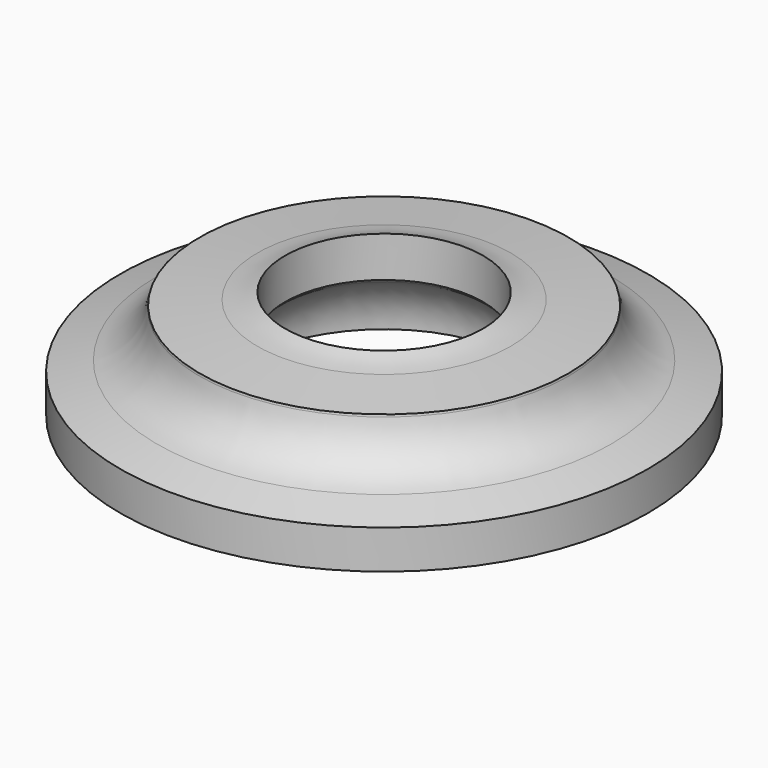
from build123d import *


with BuildPart() as part:
    # Sketch → Revolve (revolve)
    with BuildSketch(Plane.XZ):
        with BuildLine():
            Line((5.1, 5.6), (5.1, 3.5))
            Line((5.271141, 3.328858), (5.1, 3.5))
            ThreePointArc((7.089877, 0.227339), (6.601658, 2.025061), (5.271141, 3.328858))
            Line((13.6, 0), (7.089877, 0.227339))
            Line((13.6, 2), (13.6, 0))
            Line((13.6, 2), (11.697984, 2.50964))
            ThreePointArc((9.520018, 4.886473), (10.262609, 3.380647), (11.697984, 2.50964))
            Line((9.5, 5), (9.520018, 4.886473))
            Line((9.5, 5), (6.52372, 5.260391))
            ThreePointArc((5.1, 5.6), (5.799366, 5.377817), (6.52372, 5.260391))
        make_face()
    revolve(axis=Axis((0, 0, 0), (0, 0, 1)))


solid = part.part
